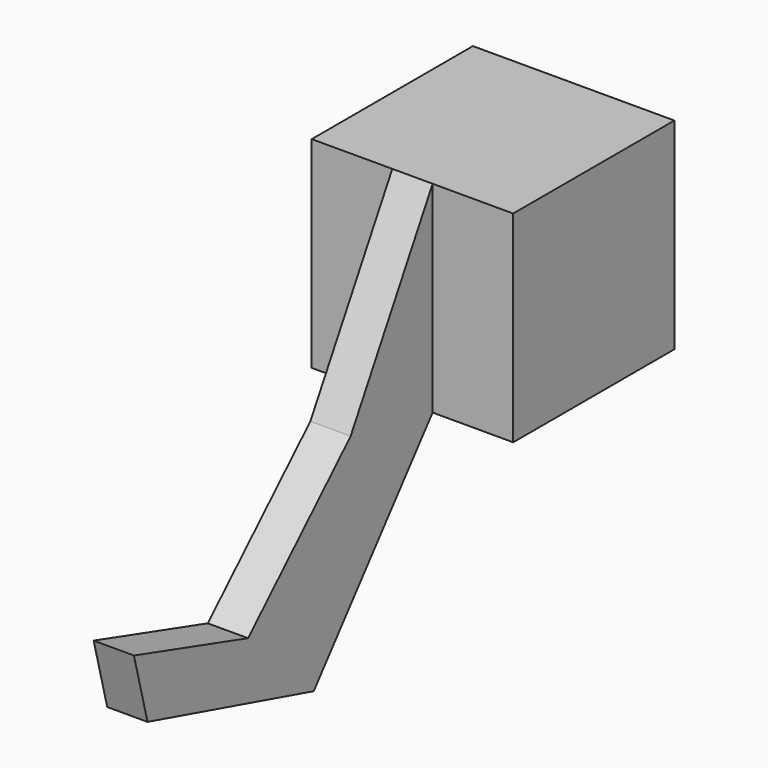
from build123d import *

# Parameters (mm, degrees)
F0_W     = 25.4
F0_H     = 25.4
F1_DEPTH = 25.4
F4_DEPTH = 5.08
F5_R     = 3.175
F6_DEPTH = 7.62


with BuildPart() as f1:
    # F0 (on Top) → F1 (new body)
    with BuildSketch(Plane.XY):
        with Locations((0, 12.7)):
            Rectangle(F0_W, F0_H)
    extrude(amount=F1_DEPTH)

    # F3 (on offset) → F4 (join)
    with BuildSketch(Plane.YZ.offset(2.54)):
        Polygon((-18.736662, -23.311928), (0, 0), (0, 25.4), (-12.919935, 2.629027), (-29.085293, -13.219362), (-47.073215, -7.830909), (-44.933684, -16.072072), align=None)
    extrude(amount=-F4_DEPTH)

    # F5 (on face) → F6 (join)
    with BuildSketch(Plane(origin=(0, 25.4, 0), x_dir=(-1, 0, 0), z_dir=(0, 1, 0))):
        with Locations((0, 4.182435)):
            Circle(F5_R)
    extrude(amount=F6_DEPTH)


solid = f1.part
